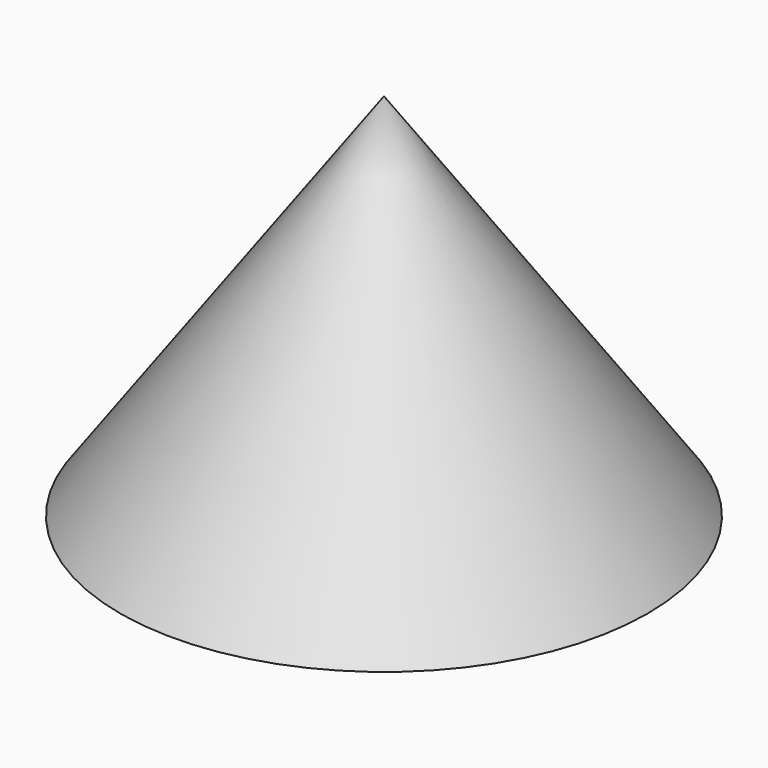
from build123d import *

# Parameters (mm, degrees)
F0_R = 50
F4_T = -3


with BuildPart() as f3:
    # F0 (on Top) → F3 section 0
    with BuildSketch(Plane.XY, mode=Mode.PRIVATE) as f3_s0:
        Circle(F0_R)
    loft([f3_s0.sketch, Vertex(0, 0, 70)])

    # F4
    f4_openings = [f3.faces().sort_by_distance(p)[0] for p in [
        (0, 0, 0),
    ]]
    offset(amount=F4_T, openings=f4_openings)


solid = f3.part
